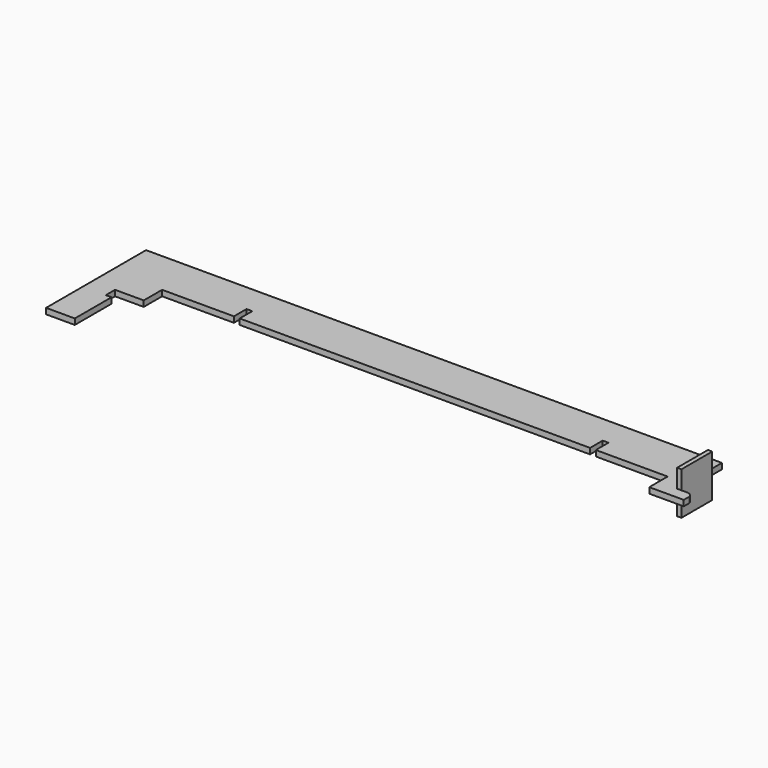
from build123d import *

# Parameters (mm, degrees)
F1_DEPTH = 6.35
F2_W     = 42.5958
F2_H     = 47.244
F3_DEPTH = 4.7625
F4_R     = 6.35


with BuildPart() as f1:
    # F0 (on Top) → F1 (new body)
    with BuildSketch(Plane.XY):
        Polygon((0, 138.1125), (0, 0), (31.75, 0), (31.75, 50.8), (25.4, 50.8), (25.4, 63.5), (57.15, 63.5), (57.15, 88.9), (136.525, 88.9), (136.525, 106.3625), (142.875, 106.3625), (142.875, 88.9), (530.225, 88.9), (530.225, 106.3625), (536.575, 106.3625), (536.575, 88.9), (615.95, 88.9), (615.95, 63.5), (654.05, 63.5), (654.05, 76.2), (641.35, 76.2), (641.35, 118.7958), (636.5875, 118.7958), (636.5875, 138.1125), align=None)
    extrude(amount=F1_DEPTH)

    # F2 (on face) → F3 (join)
    with BuildSketch(Plane.YZ.offset(641.35)):
        with Locations((97.4979, 3.175)):
            Rectangle(F2_W, F2_H)
    extrude(amount=-F3_DEPTH)

    # F4
    f4_edges = [f1.edges().sort_by_distance(p)[0] for p in [
        (654.05, 76.2, 3.175),
    ]]
    fillet(f4_edges, radius=F4_R)


solid = f1.part
